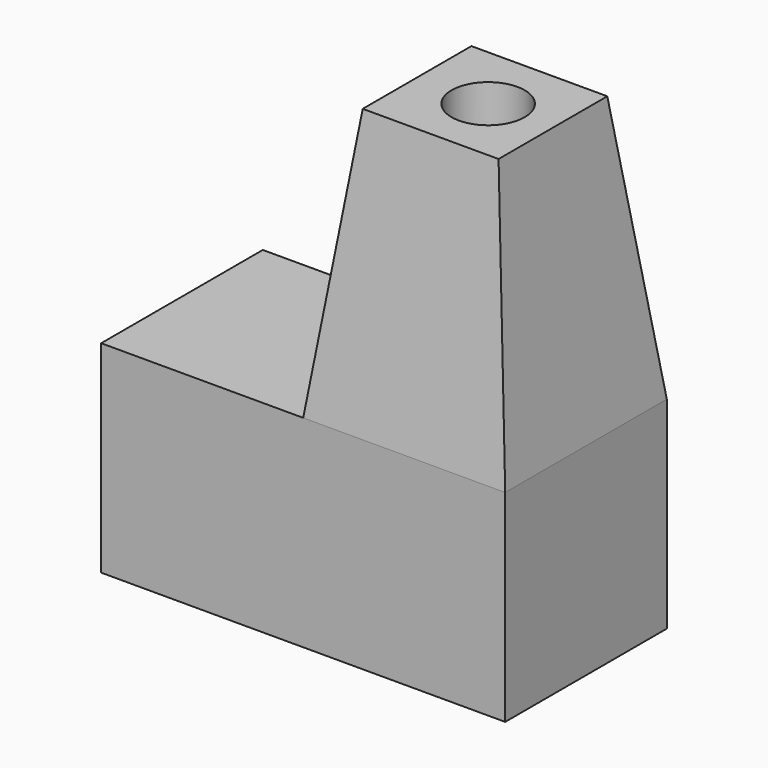
from build123d import *

# Parameters (mm, degrees)
F0_W     = 60
F0_H     = 30
F1_DEPTH = 30
F2_W     = 30
F2_H     = 30
F3_DEPTH = 40
F3_TAPER = 7
F4_R     = 5.4270060884
F5_DEPTH = 40


with BuildPart() as f1:
    # F0 (on Front) → F1 (new body)
    with BuildSketch(Plane.XZ):
        with Locations((-30, -15)):
            Rectangle(F0_W, F0_H)
    extrude(amount=F1_DEPTH)

    # F2 (on face) → F3 (join)
    with BuildSketch(Plane.XY):
        with Locations((-15, -15)):
            Rectangle(F2_W, F2_H)
    extrude(amount=F3_DEPTH, taper=F3_TAPER)

    # F4 (on face) → F5 (cut)
    with BuildSketch(Plane.XY.offset(40)):
        with Locations((-14.5341902971, -15)):
            Circle(F4_R)
    extrude(amount=-F5_DEPTH, mode=Mode.SUBTRACT)


solid = f1.part
